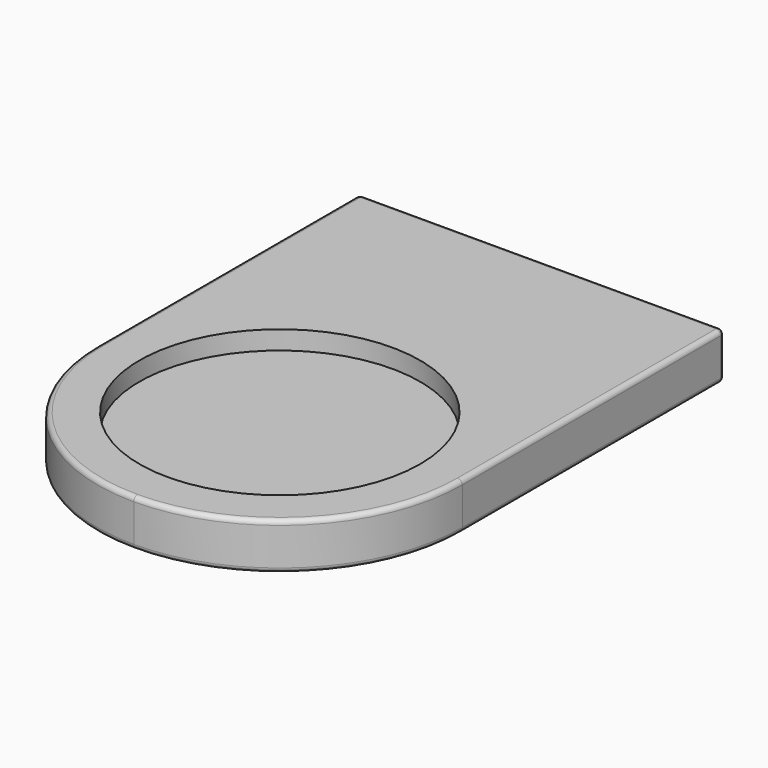
from build123d import *

# Parameters (mm, degrees)
F1_DEPTH = 12.7
F2_DEPTH = 7.62
F3_R     = 1.27


with BuildPart() as f1:
    # F0 (on Top) → F1 (new body)
    with BuildSketch(Plane.XY):
        with BuildLine():
            Line((-49.53, 88.9), (-49.53, 0))
            ThreePointArc((-49.53, 0), (-35.0229988722, -35.0229988722), (0, -49.53))
            Line((0, -49.53), (0, -38.1))
            ThreePointArc((0, -38.1), (-38.1, 0), (0, 38.1))
            Line((0, 38.1), (0, 88.9))
            Line((0, 88.9), (-49.53, 88.9))
        make_face()
        with BuildLine():
            Line((0, -38.1), (0, -49.53))
            ThreePointArc((0, -49.53), (35.0229988722, -35.0229988722), (49.53, 0))
            Line((49.53, 0), (49.53, 88.9))
            Line((49.53, 88.9), (0, 88.9))
            Line((0, 88.9), (0, 38.1))
            ThreePointArc((0, 38.1), (26.9407683632, 26.9407683632), (38.1, 0))
            ThreePointArc((38.1, 0), (26.9407683632, -26.9407683632), (0, -38.1))
        make_face()
    extrude(amount=F1_DEPTH)

    # F0 (on Top) → F2 (join)
    with BuildSketch(Plane.XY):
        with BuildLine():
            ThreePointArc((0, 38.1), (-38.1, 0), (0, -38.1))
            Line((0, -38.1), (0, 38.1))
        make_face()
        with BuildLine():
            Line((0, 38.1), (0, -38.1))
            ThreePointArc((0, -38.1), (26.9407683632, -26.9407683632), (38.1, 0))
            ThreePointArc((38.1, 0), (26.9407683632, 26.9407683632), (0, 38.1))
        make_face()
    extrude(amount=F2_DEPTH)

    # F3
    f3_edges = [f1.edges().sort_by_distance(p)[0] for p in [
        (49.53, 44.45, 12.7),
        (49.53, 88.9, 6.35),
        (0, 88.9, 12.7),
        (0, 88.9, 0),
        (49.53, 44.45, 0),
        (-49.53, 88.9, 6.35),
    ]]
    fillet(f3_edges, radius=F3_R)


solid = f1.part
